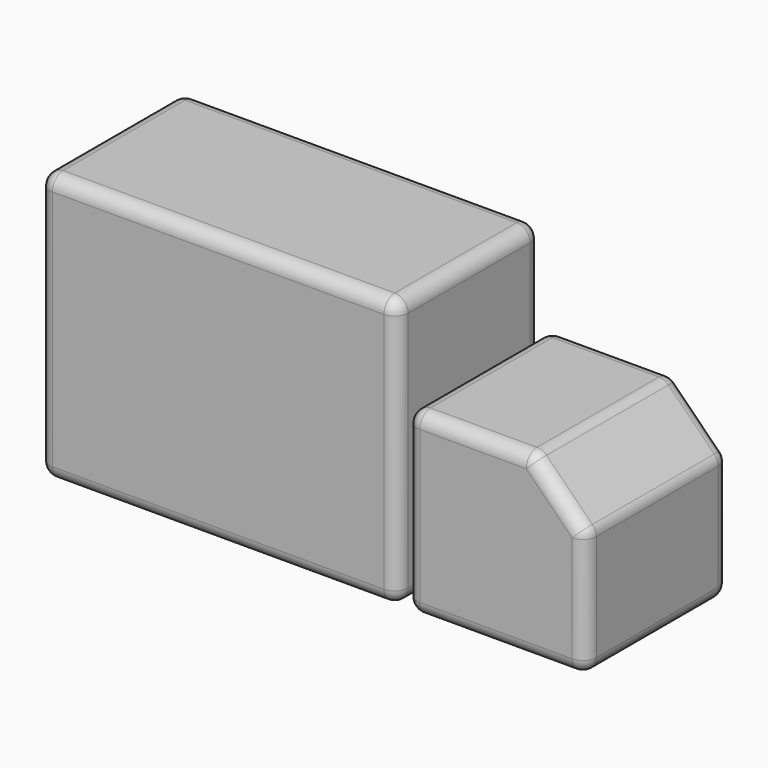
from build123d import *

# Parameters (mm, degrees)
BOX004_W               = 40
BOX004_H               = 40
BOX004_DEPTH           = 40
BOX004_PLACEMENT_ANGLE = 45
BOX003_W               = 40
BOX003_H               = 40
BOX003_DEPTH           = 40
FILLET002_R            = 3
BOX002_W               = 80
BOX002_H               = 40
BOX002_DEPTH           = 60
FILLET001_R            = 3


with BuildPart() as cube004:
    # Box004 → Box004 (new body)
    with BuildSketch(Plane.XY):
        with Locations((20, 20)):
            Rectangle(BOX004_W, BOX004_H)
    extrude(amount=BOX004_DEPTH)


with BuildPart() as cube004_1:
    # Box004 placement: moved
    add(cube004.part.moved(Location((102, 0, 41))).rotate(Axis((102, 0, 41), (0, -1, 0)), BOX004_PLACEMENT_ANGLE))


with BuildPart() as obj1:
    # Box003 → Box003 (new body)
    with BuildSketch(Plane(origin=(60, 0, 15), x_dir=(1, 0, 0), z_dir=(0, 0, 1))):
        with Locations((20, 20)):
            Rectangle(BOX003_W, BOX003_H)
    extrude(amount=BOX003_DEPTH)

    # Cut: cut Cube004
    add(cube004_1.part, mode=Mode.SUBTRACT)


with BuildPart() as obj1_1:
    # Cut placement: moved
    add(obj1.part.moved(Location((20, 0, 0))))

    # Fillet002
    fillet002_edges = [obj1_1.edges().sort_by_distance(p)[0] for p in [
        (80, 0, 35),
        (80, 20, 55),
        (80, 40, 35),
        (80, 20, 15),
        (120, 0, 29),
        (114, 0, 49),
        (94, 0, 55),
        (100, 0, 15),
        (94, 40, 55),
        (108, 20, 55),
        (120, 40, 29),
        (114, 40, 49),
        (100, 40, 15),
        (120, 20, 15),
        (120, 20, 43),
    ]]
    fillet(fillet002_edges, radius=FILLET002_R)


with BuildPart() as fusion005:
    # Box002 → Box002 (new body)
    with BuildSketch(Plane(origin=(-2, 0, 15), x_dir=(1, 0, 0), z_dir=(0, 0, 1))):
        with Locations((40, 20)):
            Rectangle(BOX002_W, BOX002_H)
    extrude(amount=BOX002_DEPTH)

    # Fillet001
    fillet001_edges = [fusion005.edges().sort_by_distance(p)[0] for p in [
        (-2, 0, 45),
        (-2, 20, 75),
        (-2, 40, 45),
        (-2, 20, 15),
        (78, 0, 45),
        (78, 20, 75),
        (78, 40, 45),
        (78, 20, 15),
        (38, 0, 15),
        (38, 0, 75),
        (38, 40, 15),
        (38, 40, 75),
    ]]
    fillet(fillet001_edges, radius=FILLET001_R)

    # Fusion005: union obj1
    add(obj1_1.part)


solid = fusion005.part
